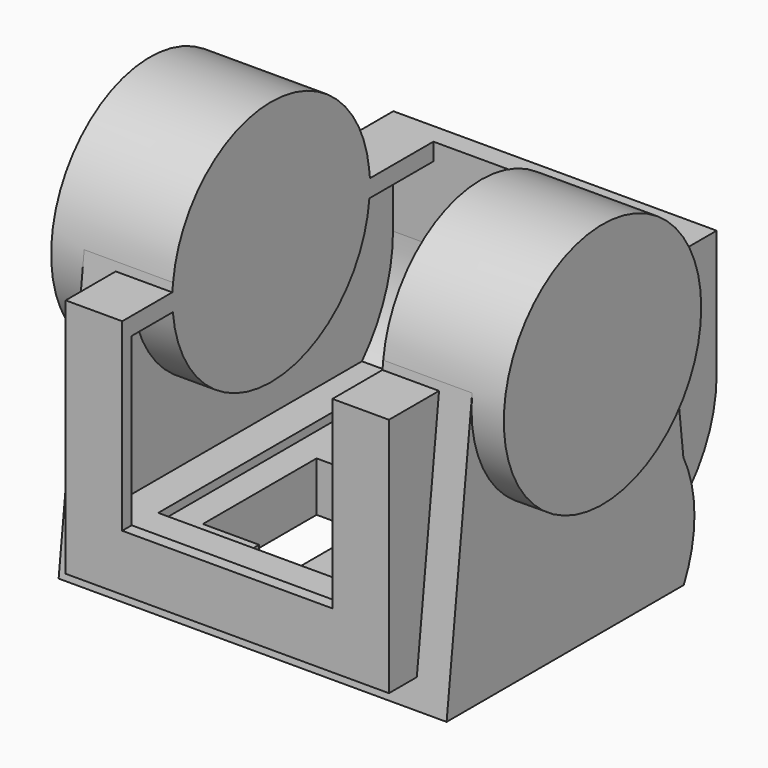
from build123d import *

# Parameters (mm, degrees)
F1_DEPTH  = 76.2
F2_R      = 48.462003
F3_DEPTH  = 88.9
F5_DEPTH  = 63.5
F7_DEPTH  = 41.275
F9_DEPTH  = 57.15
F11_W     = 122.617453
F11_H     = 143.214412
F11_W_2   = 87.062612
F11_H_2   = 105.60561
F12_DEPTH = 3.302
F14_DEPTH = 25.4


with BuildPart() as f1:
    # F0 (on Right) → F1 (new body, symmetric)
    with BuildSketch(Plane.YZ):
        with BuildLine():
            Line((-45.672867, 108.644605), (-58.206145, 0))
            Line((-58.206145, 0), (58.235409, 0))
            ThreePointArc((58.235409, 0), (63.473631, 22.12486), (58.046448, 44.204128))
            Line((58.046448, 44.204128), (50.612573, 108.644605))
            ThreePointArc((50.612573, 108.644605), (2.469853, 151.552848), (-45.672867, 108.644605))
        make_face()
    extrude(amount=F1_DEPTH, both=True)

    # F2 (on Right) → F3 (join, symmetric)
    with BuildSketch(Plane.YZ):
        with Locations((2.469853, 103.090845)):
            Circle(F2_R)
    extrude(amount=F3_DEPTH, both=True)

    # F4 (on Right) → F5 (join, symmetric)
    with BuildSketch(Plane.YZ):
        with BuildLine():
            Line((90.254351, 105.402268), (-70.632874, 105.402268))
            Line((-70.632874, 105.402268), (-70.632874, 10.851024))
            Line((-70.632874, 10.851024), (62.193779, 10.851024))
            ThreePointArc((62.193779, 10.851024), (82.663095, 29.299382), (90.254351, 55.789147))
            Line((90.254351, 55.789147), (90.254351, 105.402268))
        make_face()
    extrude(amount=F5_DEPTH, both=True)

    # F6 (on Right) → F7 (cut, symmetric)
    with BuildSketch(Plane.YZ):
        with BuildLine():
            Line((82.148224, 166.311592), (-101.252101, 166.311592))
            Line((-101.252101, 166.311592), (-101.252101, 32.949033))
            Line((-101.252101, 32.949033), (-65.976813, 32.949033))
            Line((-65.976813, 32.949033), (-65.976813, 19.525689))
            Line((-65.976813, 19.525689), (52.960247, 19.525689))
            ThreePointArc((52.960247, 19.525689), (74.312895, 40.444956), (82.148224, 69.292121))
            Line((82.148224, 69.292121), (82.148224, 166.311592))
        make_face()
    extrude(amount=F7_DEPTH, both=True, mode=Mode.SUBTRACT)

    # F8 (on Right) → F9 (cut, symmetric)
    with BuildSketch(Plane.YZ):
        with BuildLine():
            ThreePointArc((50.721201, 98.577179), (2.53727, 54.628888), (-45.76875, 98.442949))
            Line((-45.76875, 98.442949), (-65.976813, 98.442949))
            Line((-65.976813, 98.442949), (-65.976813, 19.525689))
            Line((-65.976813, 19.525689), (52.960247, 19.525689))
            ThreePointArc((52.960247, 19.525689), (74.312895, 40.444956), (82.148224, 69.292121))
            Line((82.148224, 69.292121), (82.148224, 98.577179))
            Line((82.148224, 98.577179), (50.721201, 98.577179))
        make_face()
    extrude(amount=F9_DEPTH, both=True, mode=Mode.SUBTRACT)

    # F11 (on offset) → F12 (join)
    with BuildSketch(Plane.XY.offset(30.48)):
        with Locations((-0.147897, 3.422026)):
            Rectangle(F11_W, F11_H)
        with Locations((0.489652, 2.055012)):
            Rectangle(F11_W_2, F11_H_2, mode=Mode.SUBTRACT)
    extrude(amount=-F12_DEPTH)

    # F13 (on Top) → F14 (cut)
    with BuildSketch(Plane.XY):
        Polygon((-40.871959, 24.293846), (-40.871959, -31.535055), (-18.801486, -31.535055), (-18.801486, -47.650613), (0, -47.650613), (0, 43.670883), (-20.343806, 43.670883), (-20.343806, 24.293846), align=None)
    extrude(amount=F14_DEPTH, mode=Mode.SUBTRACT)


solid = f1.part
